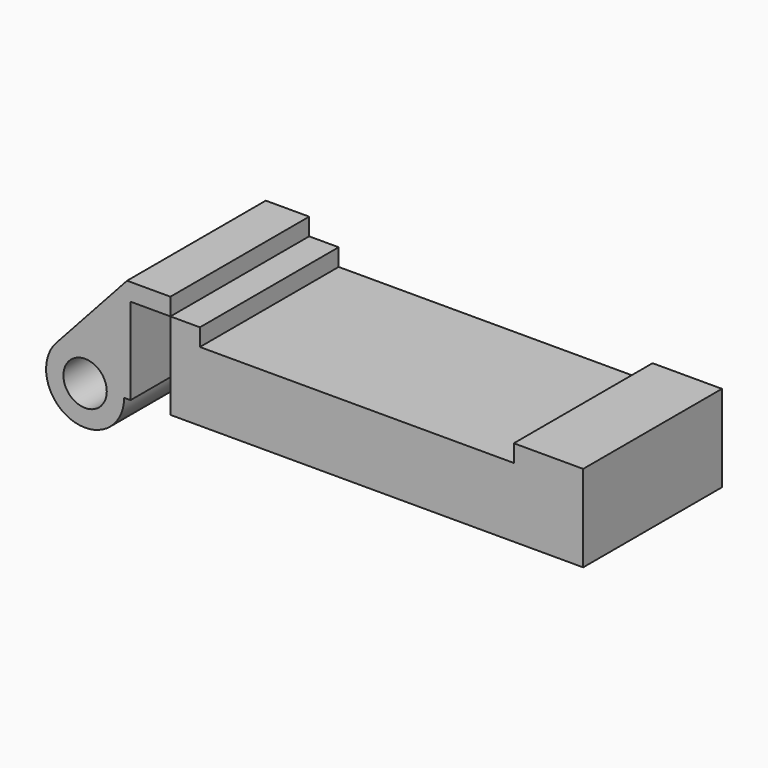
from build123d import *

# Parameters (mm, degrees)
F0_R     = 3.175
F1_DEPTH = 25.4
F2_DEPTH = 25.4


with BuildPart() as f1:
    # F0 (on Front) → F1 (new body)
    with BuildSketch(Plane.XZ):
        with BuildLine():
            Line((-0.9398, 0), (0, 0))
            Line((0, 0), (0, 12.7))
            Line((0, 12.7), (5.842, 12.7))
            Line((5.842, 12.7), (5.842, 15.24))
            Line((5.842, 15.24), (-0.508, 15.24))
            Line((-0.508, 15.24), (-10.88063, 3.847543))
            ThreePointArc((-10.88063, 3.847543), (-4.591961, 5.329721), (-0.9398, 0))
        make_face()
        with BuildLine():
            ThreePointArc((-8.182663, -5.506983), (-3.195791, -4.549339), (-0.9398, 0))
            ThreePointArc((-0.9398, 0), (-4.591961, 5.329721), (-10.88063, 3.847543))
            ThreePointArc((-10.88063, 3.847543), (-12.145978, -1.583727), (-8.182663, -5.506983))
        make_face()
        with Locations((-6.6548, 0)):
            Circle(F0_R, mode=Mode.SUBTRACT)
    extrude(amount=F1_DEPTH)


with BuildPart() as f2:
    # F0 (on Front) → F2 (new body)
    with BuildSketch(Plane.XZ):
        Polygon((5.842, 12.7), (5.842, 0), (66.294, 0), (66.294, 12.7), (56.134, 12.7), (56.134, 10.16), (10.16, 10.16), (10.16, 12.7), align=None)
    extrude(amount=F2_DEPTH)


solid = Compound([f1.part, f2.part])
